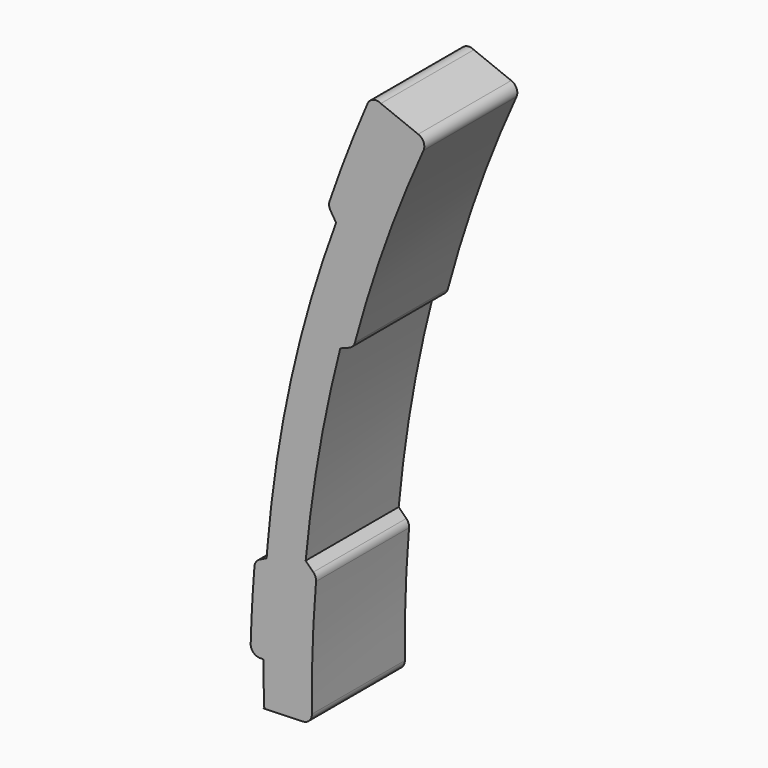
from build123d import *

# Parameters (mm, degrees)
F1_DEPTH = 25


with BuildPart() as f1:
    # F0 (on Front) → F1 (new body)
    with BuildSketch(Plane.XZ):
        with BuildLine():
            Line((-249.201278, -9.968051), (-249.80024, -9.99201))
            Line((-249.80024, -9.99201), (-250, -10))
            ThreePointArc((-250, -10), (-249.60032, -9.99201), (-249.201278, -9.968051))
        make_face()
        with BuildLine():
            ThreePointArc((-249.999, -0.707062), (-249.942739, -5.350459), (-249.80024, -9.99201))
            Line((-249.80024, -9.99201), (-249.201278, -9.968051))
            Line((-249.201278, -9.968051), (-241.505665, -9.711531))
            ThreePointArc((-241.505665, -9.711531), (-240.12643, -9.094478), (-239.572438, -7.688727))
            ThreePointArc((-239.572438, -7.688727), (-239.424938, 5.02247), (-238.67886, 17.71261))
            ThreePointArc((-238.67886, 17.71261), (-238.795492, 18.568637), (-239.262291, 19.295606))
            Line((-239.262291, 19.295606), (-240.905318, 20.928429))
            ThreePointArc((-240.905318, 20.928429), (-238.031759, 42.383536), (-233.463038, 63.542594))
            Line((-233.463038, 63.542594), (-231.527622, 64.299185))
            ThreePointArc((-231.527622, 64.299185), (-230.766117, 64.82743), (-230.324496, 65.642233))
            ThreePointArc((-230.324496, 65.642233), (-223.783266, 86.533559), (-215.569853, 106.8258))
            ThreePointArc((-215.569853, 106.8258), (-215.548101, 108.425913), (-216.70669, 109.529773))
            Line((-216.70669, 109.529773), (-224.747754, 112.733319))
            ThreePointArc((-224.747754, 112.733319), (-226.378526, 112.906016), (-227.59026, 111.801054))
            ThreePointArc((-227.59026, 111.801054), (-231.890521, 101.308469), (-235.766228, 90.651759))
            ThreePointArc((-235.766228, 90.651759), (-235.859474, 89.771031), (-235.56325, 88.936388))
            Line((-235.56325, 88.936388), (-234.360305, 87.035898))
            ThreePointArc((-234.360305, 87.035898), (-244.006606, 54.413016), (-249.134672, 20.782575))
            ThreePointArc((-249.134672, 20.782575), (-249.22133, 19.716205), (-249.303424, 18.649473))
            Line((-249.303424, 18.649473), (-250.812669, 17.902218))
            ThreePointArc((-250.812669, 17.902218), (-251.580544, 17.232374), (-251.918736, 16.271152))
            ThreePointArc((-251.918736, 16.271152), (-252.422765, 8.815221), (-252.729403, 1.348567))
            ThreePointArc((-252.729403, 1.348567), (-252.163923, -0.101469), (-250.730177, -0.707062))
            Line((-250.730177, -0.707062), (-249.999, -0.707062))
        make_face()
    extrude(amount=F1_DEPTH)


solid = f1.part
